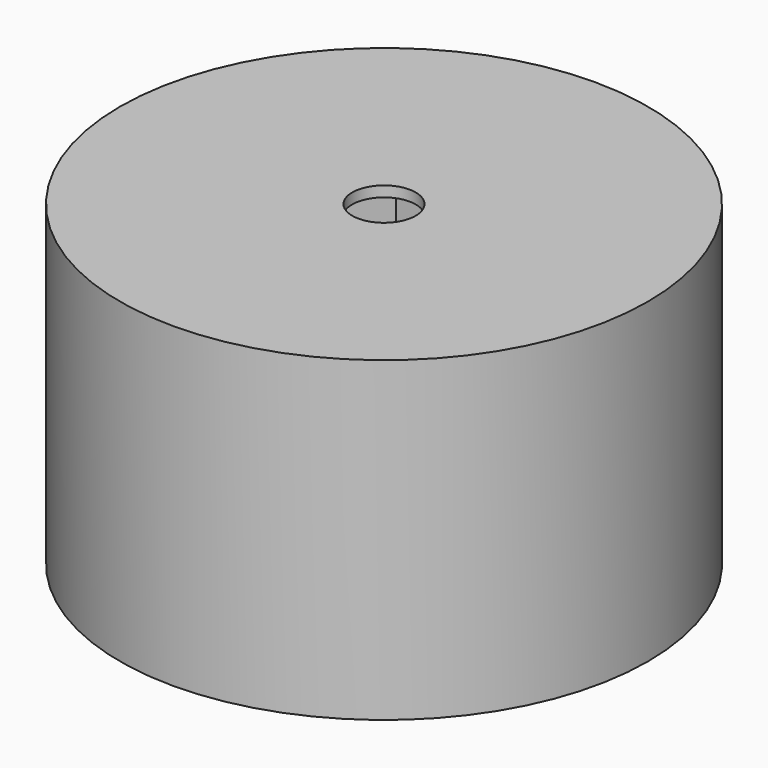
from build123d import *

# Parameters (mm, degrees)
F0_R      = 25
F1_DEPTH  = 25
F5_R      = 25
F6_DEPTH  = 5
F8_DEPTH  = 4
F9_R      = 3
F10_DEPTH = 25


with BuildPart() as f1:
    # F0 (on Top) → F1 (new body)
    with BuildSketch(Plane.XY):
        Circle(F0_R)
    extrude(amount=F1_DEPTH)

    # F3 (on face) → F4 section 0
    with BuildSketch(Plane.XY.offset(25)):
        Polygon((-3.4807621135, 12.9903810568), (-7.5, 12.9903810568), (-9.5096189432, 9.5096189432), (-12.9903810568, 7.5), (-12.9903810568, 3.4807621135), (-15, 0), (-12.9903810568, -3.4807621135), (-12.9903810568, -7.5), (-9.5096189432, -9.5096189432), (-7.5, -12.9903810568), (-3.4807621135, -12.9903810568), (0, -15), (3.4807621135, -12.9903810568), (7.5, -12.9903810568), (9.5096189432, -9.5096189432), (12.9903810568, -7.5), (12.9903810568, -3.4807621135), (15, 0), (12.9903810568, 3.4807621135), (12.9903810568, 7.5), (9.5096189432, 9.5096189432), (7.5, 12.9903810568), (3.4807621135, 12.9903810568), (0, 15), align=None)
    # F2 (on face) → F4 section 1
    with BuildSketch(Plane(origin=(0, 0, 0), x_dir=(1, 0, 0), z_dir=(0, 0, -1))):
        Polygon((-4.9102076485, 20), (-11.5470053838, 20), (-14.414081985, 15.0340776575), (-19.4962760907, 12.3785520935), (-19.7756118999, 5.7476354385), (-23.0940107676, 0), (-20.2269341664, -4.9659223425), (-20.4682786203, -10.694994327), (-14.8654042514, -14.2523645615), (-11.5470053838, -20), (-5.8128521814, -20), (-0.9720025297, -23.0735464204), (4.9102076485, -20), (11.5470053838, -20), (14.414081985, -15.0340776575), (19.4962760907, -12.3785520935), (19.7756118999, -5.7476354385), (23.0940107676, 0), (20.2269341664, 4.9659223425), (20.4682786203, 10.694994327), (14.8654042514, 14.2523645615), (11.5470053838, 20), (5.8128521814, 20), (0.9720025297, 23.0735464204), align=None)
    loft(mode=Mode.SUBTRACT)

    # F5 (on face) → F6 (join)
    with BuildSketch(Plane.XY.offset(25)):
        Circle(F5_R)
    extrude(amount=F6_DEPTH)

    # F7 (on face) → F8 (cut)
    with BuildSketch(Plane(origin=(0, 0, 25), x_dir=(1, 0, 0), z_dir=(0, 0, -1))):
        Polygon((2.8867513459, 5), (-2.8867513459, 5), (-5.7735026919, 0), (-2.8867513459, -5), (2.8867513459, -5), (5.7735026919, 0), align=None)
    extrude(amount=-F8_DEPTH, mode=Mode.SUBTRACT)

    # F9 (on face) → F10 (cut)
    with BuildSketch(Plane.XY.offset(30)):
        Circle(F9_R)
    extrude(amount=-F10_DEPTH, mode=Mode.SUBTRACT)


solid = f1.part
